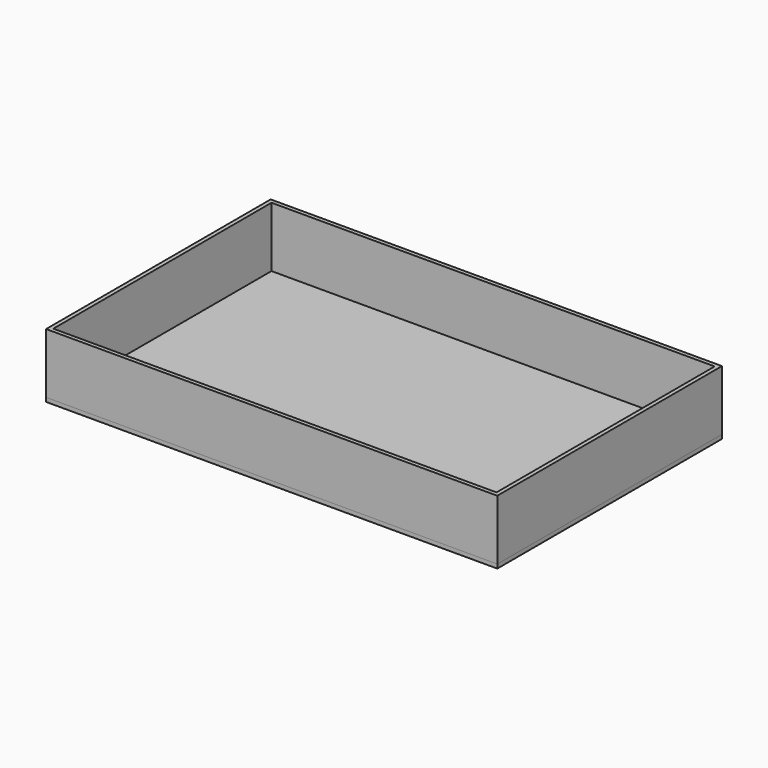
from build123d import *

# Parameters (mm, degrees)
SKETCH_W      = 225
SKETCH_H      = 140
PAD_DEPTH     = 2
SKETCH001_W   = 225
SKETCH001_H   = 140
SKETCH001_W_2 = 221
SKETCH001_H_2 = 136
PAD001_DEPTH  = 30


with BuildPart() as pad:
    # Sketch → Pad (new body)
    with BuildSketch(Plane.XY):
        Rectangle(SKETCH_W, SKETCH_H)
    extrude(amount=PAD_DEPTH)


with BuildPart() as pad001:
    # Sketch001 → Pad001 (new body)
    with BuildSketch(Plane.XY.offset(2)):
        Rectangle(SKETCH001_W, SKETCH001_H)
        Rectangle(SKETCH001_W_2, SKETCH001_H_2, mode=Mode.SUBTRACT)
    extrude(amount=PAD001_DEPTH)


solid = Compound([pad.part, pad001.part])
